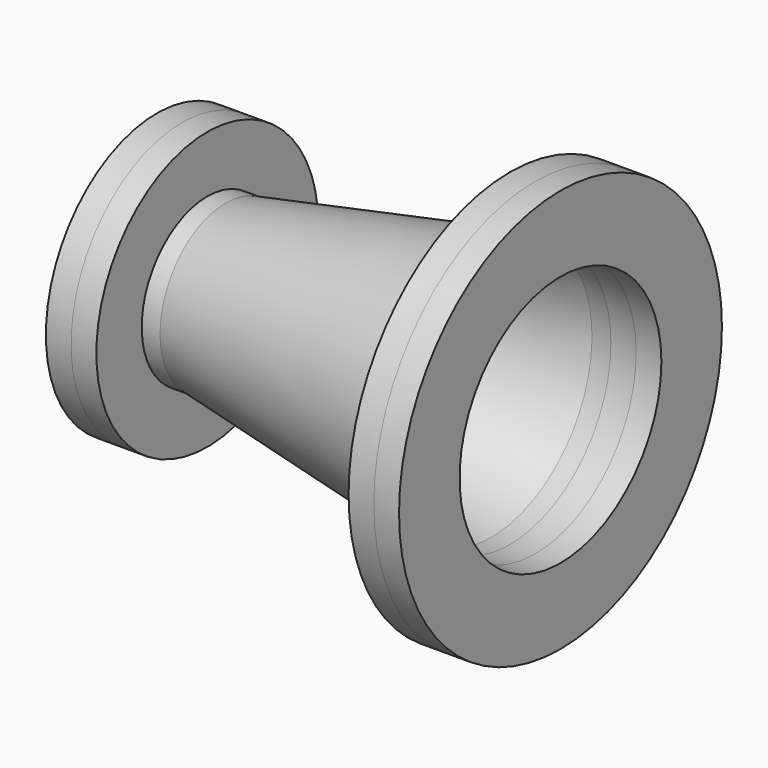
from build123d import *

# Parameters (mm, degrees)
F0_R      = 203.2
F0_R_2    = 127
F1_DEPTH  = 25.4
F3_R      = 139.7
F3_R_2    = 76.2
F4_DEPTH  = 25.4
F9_DEPTH  = 25.4
F10_DEPTH = 25.4


with BuildPart() as f1:
    # F0 (on Right) → F1 (new body)
    with BuildSketch(Plane.YZ):
        Circle(F0_R)
        Circle(F0_R_2, mode=Mode.SUBTRACT)
    extrude(amount=F1_DEPTH)



with BuildPart() as f4:
    # F3 (on offset) → F4 (new body)
    with BuildSketch(Plane.YZ.offset(-304.8)):
        Circle(F3_R)
        Circle(F3_R_2, mode=Mode.SUBTRACT)
    extrude(amount=-F4_DEPTH)


with BuildPart() as f1_1:
    add(f1.part)

    add(f4.part)  # F8 merges F4
    # F7 (on Front) → F8 (revolve)
    with BuildSketch(Plane.XZ):
        Polygon((-304.8, 82.55), (-304.8, 76.2), (-285.75, 76.2), (-19.05, 127), (0, 127), (0, 133.35), (-19.6493738432, 133.35), (-286.3493738432, 82.55), align=None)
    revolve(axis=Axis((-150.1979082823, 0, 0), (-1, 0, 0)))


with BuildPart() as f9:
    # F9 (new): a face of the model
    f9_faces = [f1_1.part.faces().sort_by_distance(p)[0] for p in [
        (-330.2, -135.7486873067, 0),
    ]]
    extrude(f9_faces, amount=F9_DEPTH)


with BuildPart() as f10:
    # F10 (new): a face of the model
    f10_faces = [f1_1.part.faces().sort_by_distance(p)[0] for p in [
        (25.4, -197.4526360825, 0),
    ]]
    extrude(f10_faces, amount=F10_DEPTH)


solid = Compound([f1_1.part, f9.part, f10.part])
